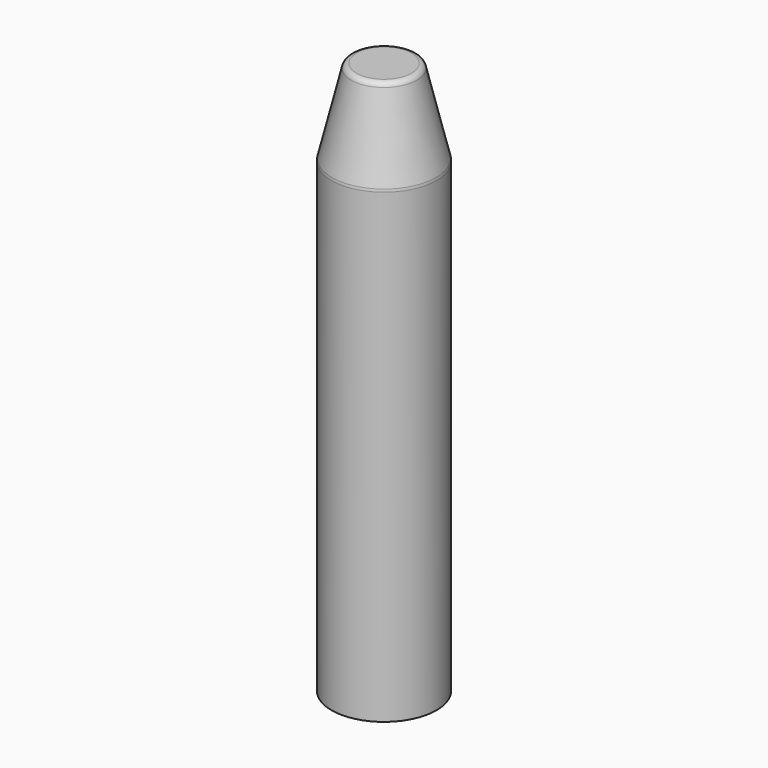
from build123d import *

# Parameters (mm, degrees)
F2_R = 2.54
F3_R = 5.08


with BuildPart() as f1:
    # F0 (on Front) → F1 (revolve)
    with BuildSketch(Plane.XZ):
        Polygon((0, 247.65), (0, 0), (23.495, 0), (23.495, 209.55), (14.2875, 247.65), align=None)
    revolve(axis=Axis((0, 0, 5.152837), (0, 0, 1)))

    # F2
    f2_edges = [f1.edges().sort_by_distance(p)[0] for p in [
        (-14.2875, 0, 247.65),
    ]]
    fillet(f2_edges, radius=F2_R)

    # F3
    f3_edges = [f1.edges().sort_by_distance(p)[0] for p in [
        (-23.495, 0, 209.55),
    ]]
    fillet(f3_edges, radius=F3_R)


solid = f1.part
